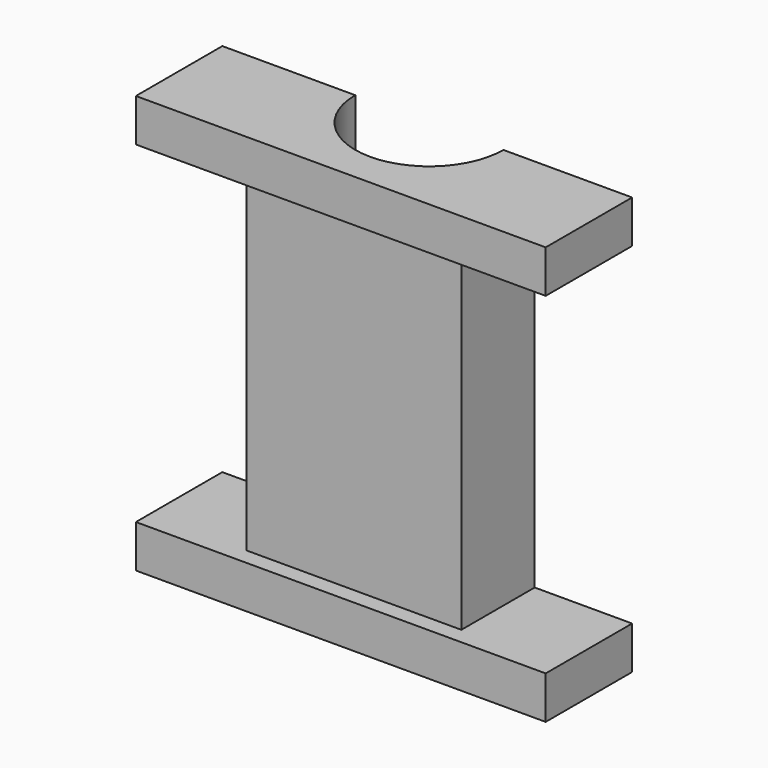
from build123d import *

# Parameters (mm, degrees)
F1_DEPTH = 25
F2_W     = 49.72059
F2_H     = 76.887056
F3_DEPTH = 3.8
F5_DEPTH = 97.5


with BuildPart() as f1:
    # F0 (on Front) → F1 (new body)
    with BuildSketch(Plane.XZ):
        Polygon((0, 48.325881), (-47.404412, 48.325881), (-47.404412, 38.443528), (-24.860295, 38.443528), (-24.860295, 0), (-24.860295, -38.443528), (-47.404412, -38.443528), (-47.404412, -48.325881), (0, -48.325881), (47.404412, -48.325881), (47.404412, -38.443528), (24.860295, -38.443528), (24.860295, 0), (24.860295, 38.443528), (47.404412, 38.443528), (47.404412, 48.325881), align=None)
    extrude(amount=F1_DEPTH)

    # F2 (on face) → F3 (cut)
    with BuildSketch(Plane.XZ.offset(25)):
        Rectangle(F2_W, F2_H)
    extrude(amount=-F3_DEPTH, mode=Mode.SUBTRACT)

    # F4 (on face) → F5 (cut)
    with BuildSketch(Plane(origin=(0, 0, -48.325881), x_dir=(1, 0, 0), z_dir=(0, 0, -1))):
        with BuildLine():
            Line((-16.650641, 0), (17.627948, 0))
            ThreePointArc((17.627948, 0), (0.488654, 17.139295), (-16.650641, 0))
        make_face()
    extrude(amount=-F5_DEPTH, mode=Mode.SUBTRACT)


solid = f1.part
